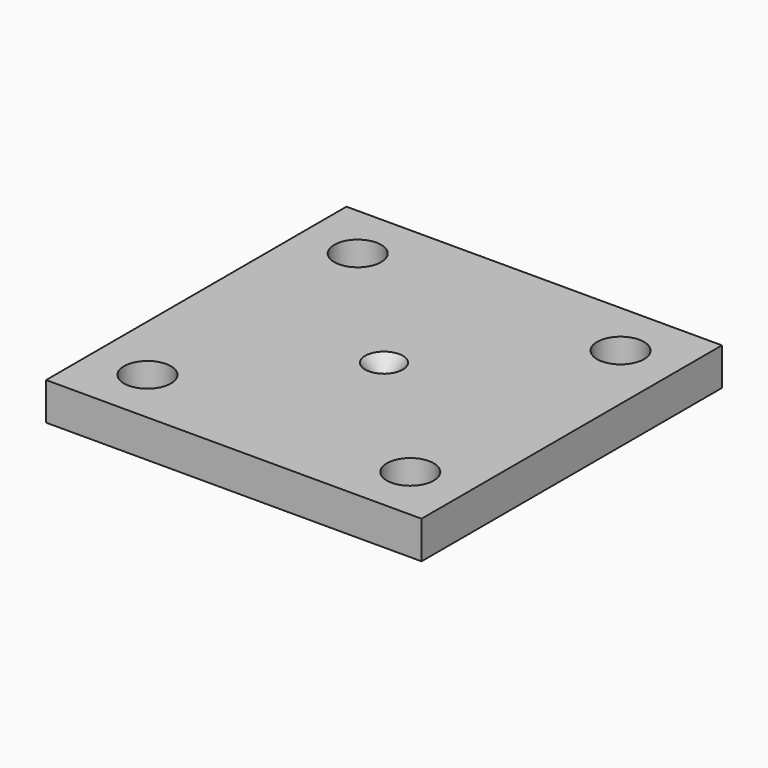
from build123d import *

# Parameters (mm, degrees)
F0_W     = 20
F0_H     = 20
F1_DEPTH = 1
F2_R     = 1
F3_R     = 0.1
F6_W     = 20
F6_H     = 20
F6_R     = 0.1
F7_DEPTH = 1
F8_D     = 2.5


with BuildPart() as f1:
    # F0 (on Top) → F1 (new body)
    with BuildSketch(Plane.XY):
        Rectangle(F0_W, F0_H)
    extrude(amount=-F1_DEPTH)

    # F2 (on face) → F4 section 0
    with BuildSketch(Plane.XY):
        Circle(F2_R)
    # F3 (on face) → F4 section 1
    with BuildSketch(Plane(origin=(0, 0, -1), x_dir=(1, 0, 0), z_dir=(0, 0, -1))):
        Circle(F3_R)
    loft(mode=Mode.SUBTRACT)

    # F6 (on face) → F7 (join)
    with BuildSketch(Plane(origin=(0, 0, -1), x_dir=(1, 0, 0), z_dir=(0, 0, -1))):
        Rectangle(F6_W, F6_H)
        Circle(F6_R, mode=Mode.SUBTRACT)
    extrude(amount=F7_DEPTH)

    # F8 (through all)
    with Locations(Plane.XY):
        with Locations((-7, -7), (7, -7), (7, 7), (-7, 7)):
            Hole(F8_D / 2)


solid = f1.part
